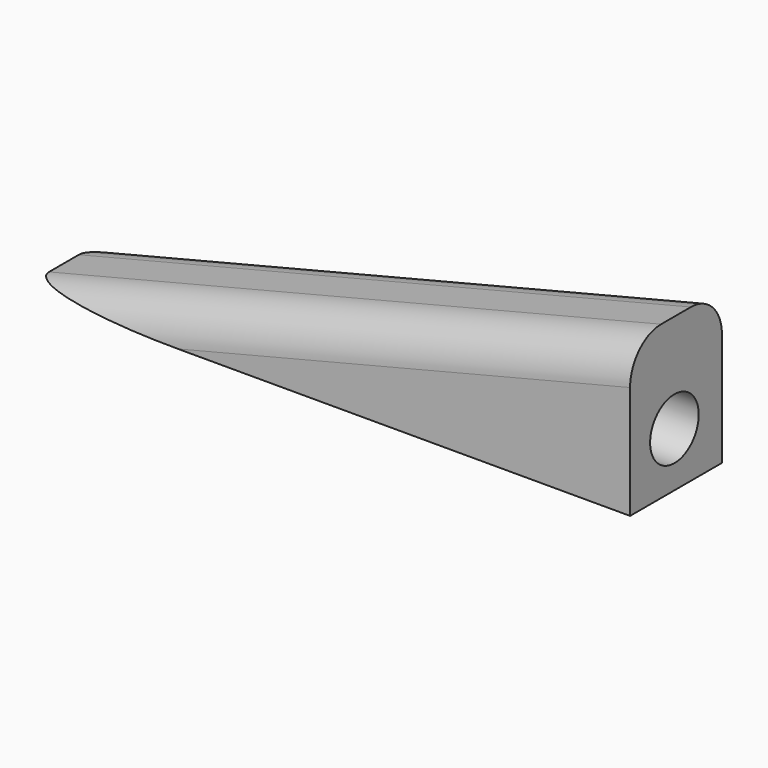
from build123d import *

# Parameters (mm, degrees)
F1_DEPTH = 38.1
F2_R     = 12.877415
F3_R     = 10.088081
F4_DEPTH = 50.8


with BuildPart() as f1:
    # F0 (on Front) → F1 (new body)
    with BuildSketch(Plane.XZ):
        Polygon((-103.93265, 0), (99.26735, 0), (99.26735, 50.8), align=None)
    extrude(amount=F1_DEPTH)

    # F2
    f2_edges = [f1.edges().sort_by_distance(p)[0] for p in [
        (-2.33265, 0, 25.4),
        (-2.33265, -38.1, 25.4),
    ]]
    fillet(f2_edges, radius=F2_R)

    # F3 (on face) → F4 (cut)
    with BuildSketch(Plane.YZ.offset(99.26735)):
        with Locations((-19.710729, 18.024944)):
            Circle(F3_R)
    extrude(amount=-F4_DEPTH, mode=Mode.SUBTRACT)


solid = f1.part
